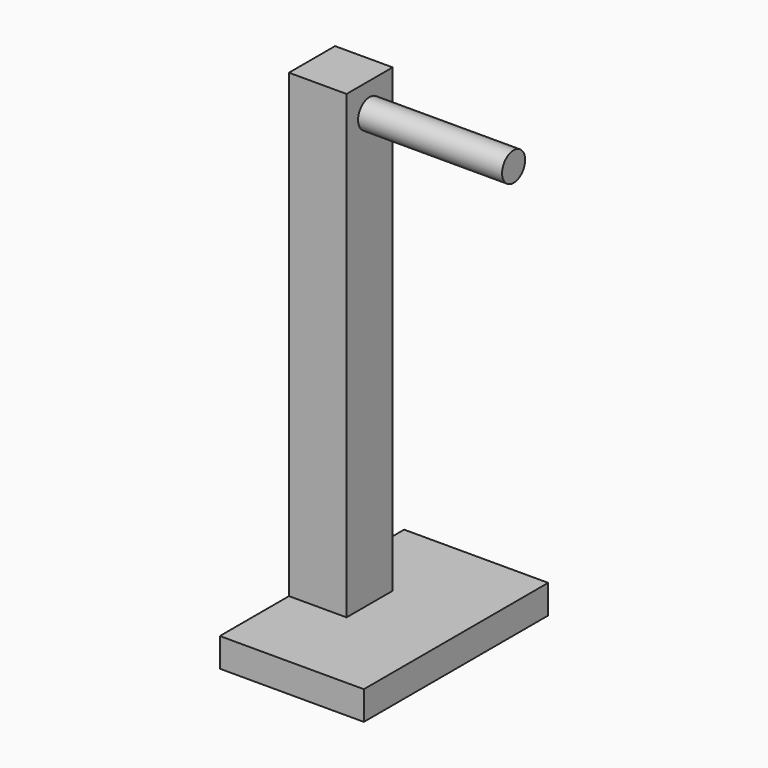
from build123d import *

# Parameters (mm, degrees)
F0_W     = 50.8
F0_H     = 50.8
F1_DEPTH = 6.35
F2_W     = 12.7
F2_H     = 12.7
F3_DEPTH = 101.6
F4_R     = 3.175
F5_DEPTH = 31.75
F7_DEPTH = 25.4


with BuildPart() as f1:
    # F0 (on Top) → F1 (new body)
    with BuildSketch(Plane.XY):
        with Locations((-0.287808, -0.096031)):
            Rectangle(F0_W, F0_H)
    extrude(amount=F1_DEPTH)

    # F2 (on face) → F3 (join)
    with BuildSketch(Plane.XY.offset(6.35)):
        with Locations((-0.287808, -0.096031)):
            Rectangle(F2_W, F2_H)
    extrude(amount=F3_DEPTH)

    # F4 (on face) → F5 (join)
    with BuildSketch(Plane.YZ.offset(6.062192)):
        with Locations((-0.096031, 101.6)):
            Circle(F4_R)
    extrude(amount=F5_DEPTH)

    # F6 (on face) → F7 (cut)
    with BuildSketch(Plane.XY.offset(6.35)):
        Polygon((-6.637808, -6.446031), (-6.637808, 6.253969), (-6.637808, 25.303969), (-25.687808, 25.303969), (-25.687808, -25.496031), (-6.637808, -25.496031), align=None)
    extrude(amount=-F7_DEPTH, mode=Mode.SUBTRACT)


solid = f1.part
